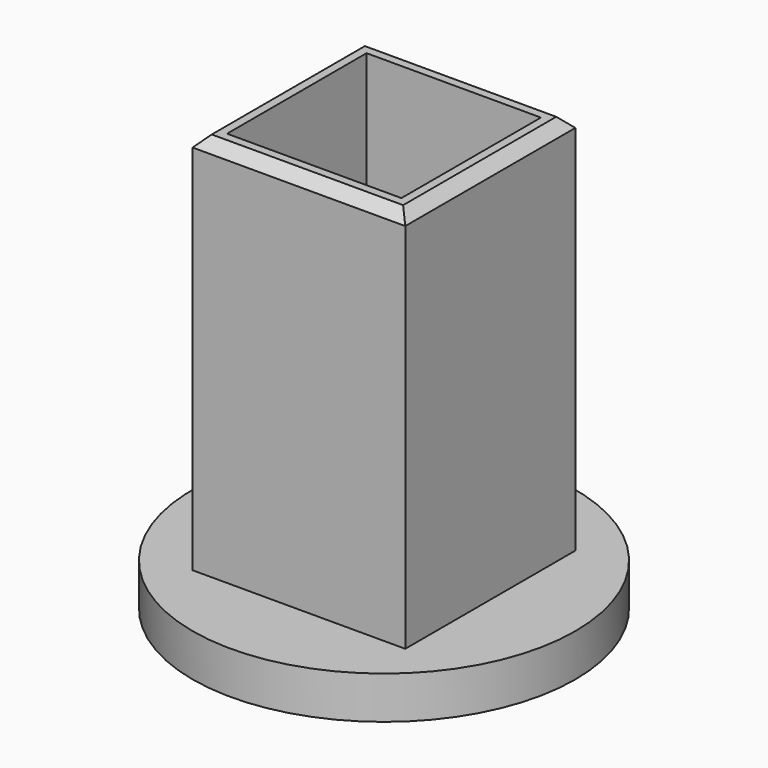
from build123d import *

# Parameters (mm, degrees)
F0_R     = 9
F0_W     = 10
F0_H     = 10
F0_W_2   = 8.2
F0_H_2   = 8.2
F1_DEPTH = 2
F2_DEPTH = 20
F3_SIZE  = 0.5


with BuildPart() as f1:
    # F0 (on Top) → F1 (new body)
    with BuildSketch(Plane.XY):
        Circle(F0_R)
        Rectangle(F0_W, F0_H, mode=Mode.SUBTRACT)
        Rectangle(F0_W, F0_H)
        Rectangle(F0_W_2, F0_H_2, mode=Mode.SUBTRACT)
    extrude(amount=F1_DEPTH)

    # F0 (on Top) → F2 (join)
    with BuildSketch(Plane.XY):
        Rectangle(F0_W, F0_H)
        Rectangle(F0_W_2, F0_H_2, mode=Mode.SUBTRACT)
    extrude(amount=F2_DEPTH)

    # F3
    f3_edges = [f1.edges().sort_by_distance(p)[0] for p in [
        (0, -5, 20),
        (5, 0, 20),
        (0, 5, 20),
        (-5, 0, 20),
    ]]
    chamfer(f3_edges, length=F3_SIZE)


solid = f1.part
